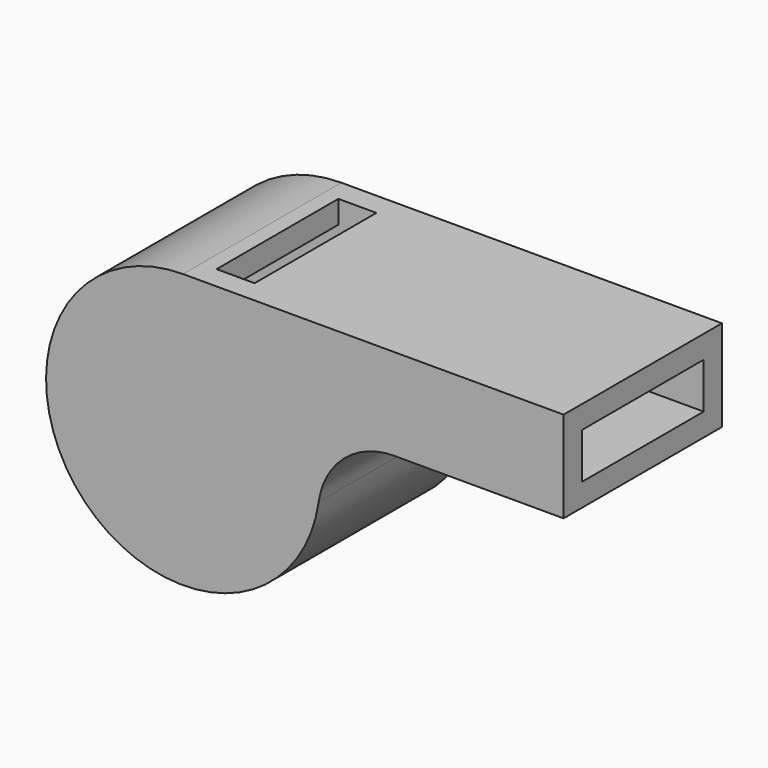
from build123d import *

# Parameters (mm, degrees)
F1_DEPTH = 6.5
F2_T     = -1.5
F3_W     = 2.5
F3_H     = 10
F4_DEPTH = 1.5


with BuildPart() as f1:
    # F0 (on Front) → F1 (new body, symmetric)
    with BuildSketch(Plane.XZ):
        with BuildLine():
            Line((25, 9), (0, 9))
            ThreePointArc((0, 9), (-6.803361, -5.891883), (8.90769, -1.285714))
            ThreePointArc((8.90769, -1.285714), (10.583138, 1.779645), (13.856406, 3))
            Line((13.856406, 3), (25, 3))
            Line((25, 3), (25, 9))
        make_face()
    extrude(amount=F1_DEPTH, both=True)

    # F2
    f2_openings = [f1.faces().sort_by_distance(p)[0] for p in [
        (25, 0, 6),
    ]]
    offset(amount=F2_T, openings=f2_openings)

    # F3 (on face) → F4 (cut)
    with BuildSketch(Plane.XY.offset(9)):
        with Locations((2.25, 0)):
            Rectangle(F3_W, F3_H)
    extrude(amount=-F4_DEPTH, mode=Mode.SUBTRACT)


solid = f1.part
